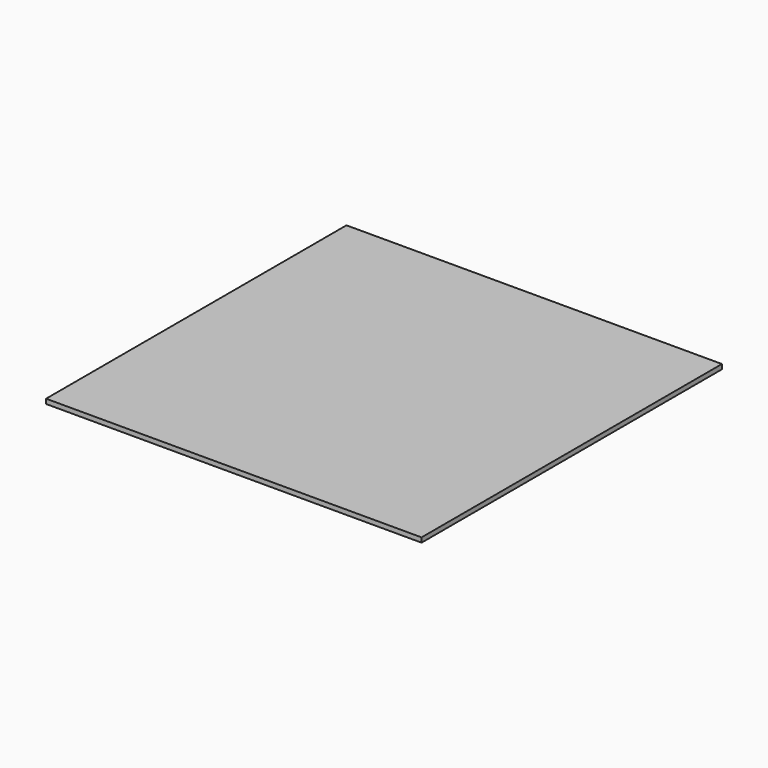
from build123d import *

# Parameters (mm, degrees)
F0_W     = 260
F0_H     = 130
F1_DEPTH = 5
F0_W_2   = 130
F0_H_2   = 120
F2_DEPTH = 5


with BuildPart() as f1:
    # F0 (on Top) → F1 (new body)
    with BuildSketch(Plane.XY):
        Polygon((200, 200), (-200, 200), (-200, 190), (60, 190), (60, 180), (190, 180), (190, 60), (190, -200), (200, -200), align=None)
        Polygon((60, 190), (-200, 190), (-200, 60), (60, 60), (60, 180), align=None)
        with Locations((-70, -5)):
            Rectangle(F0_W, F0_H)
        Polygon((60, -200), (190, -200), (190, 60), (60, 60), (60, -70), align=None)
        with Locations((-70, -135)):
            Rectangle(F0_W, F0_H)
    extrude(amount=F1_DEPTH)

    # F0 (on Top) → F2 (join)
    with BuildSketch(Plane.XY):
        with Locations((125, 120)):
            Rectangle(F0_W_2, F0_H_2)
    extrude(amount=F2_DEPTH)


solid = f1.part
